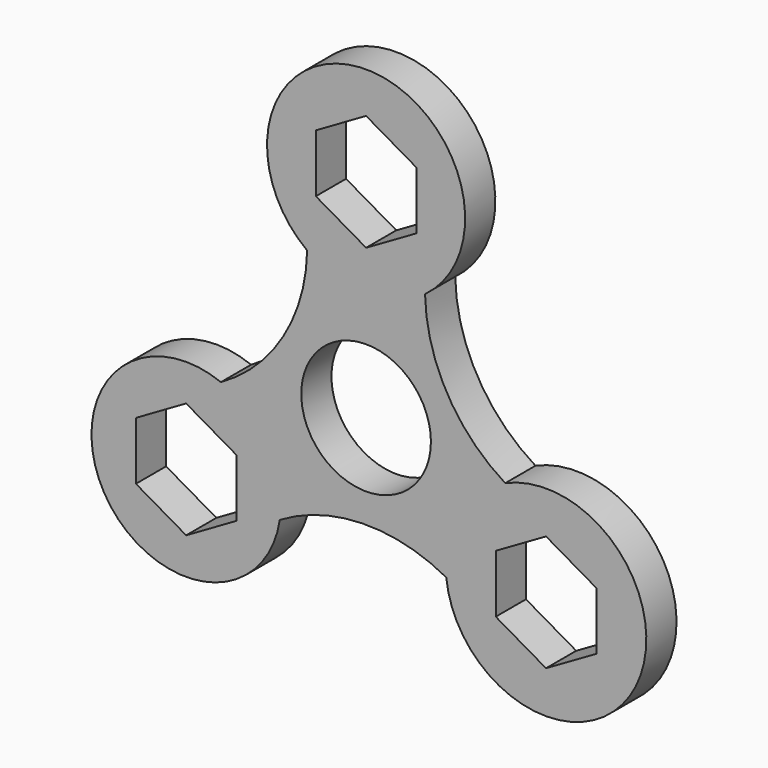
from build123d import *

# Parameters (mm, degrees)
F0_R     = 10.9
F1_DEPTH = 6.35


with BuildPart() as f1:
    # F0 (on Front) → F1 (new body)
    with BuildSketch(Plane.XZ):
        with BuildLine():
            ThreePointArc((-14.505899, -19.817566), (-0.589536, -15.827337), (13.480836, -19.23494))
            ThreePointArc((13.480836, -19.23494), (44.858861, -25.899275), (23.398364, -2.057277))
            ThreePointArc((23.398364, -2.057277), (13.637984, 8.021297), (9.911641, 21.547459))
            ThreePointArc((9.911641, 21.547459), (0, 51.589275), (-9.911641, 21.547459))
            ThreePointArc((-9.911641, 21.547459), (-13.935775, 7.512465), (-24.415466, -2.653694))
            ThreePointArc((-24.415466, -2.653694), (-44.041764, -25.427524), (-14.505899, -19.817566))
        make_face()
        Polygon((-21.803127, -12.588041), (-21.803127, -22.345261), (-30.253127, -27.223871), (-38.703127, -22.345261), (-38.703127, -12.588041), (-30.253127, -7.709432), align=None, mode=Mode.SUBTRACT)
        Circle(F0_R, mode=Mode.SUBTRACT)
        Polygon((21.803127, -12.588041), (30.253127, -7.709432), (38.703127, -12.588041), (38.703127, -22.345261), (30.253127, -27.223871), (21.803127, -22.345261), align=None, mode=Mode.SUBTRACT)
        Polygon((0, 44.690522), (8.45, 39.811912), (8.45, 30.054693), (0, 25.176083), (-8.45, 30.054693), (-8.45, 39.811912), align=None, mode=Mode.SUBTRACT)
        with BuildLine():
            ThreePointArc((-14.505899, -19.817566), (-0.589536, -15.827337), (13.480836, -19.23494))
            ThreePointArc((13.480836, -19.23494), (44.858861, -25.899275), (23.398364, -2.057277))
            ThreePointArc((23.398364, -2.057277), (13.637984, 8.021297), (9.911641, 21.547459))
            ThreePointArc((9.911641, 21.547459), (0, 51.589275), (-9.911641, 21.547459))
            ThreePointArc((-9.911641, 21.547459), (-13.935775, 7.512465), (-24.415466, -2.653694))
            ThreePointArc((-24.415466, -2.653694), (-44.041764, -25.427524), (-14.505899, -19.817566))
        make_face()
        Polygon((-21.803127, -12.588041), (-21.803127, -22.345261), (-30.253127, -27.223871), (-38.703127, -22.345261), (-38.703127, -12.588041), (-30.253127, -7.709432), align=None, mode=Mode.SUBTRACT)
        Circle(F0_R, mode=Mode.SUBTRACT)
        Polygon((21.803127, -12.588041), (30.253127, -7.709432), (38.703127, -12.588041), (38.703127, -22.345261), (30.253127, -27.223871), (21.803127, -22.345261), align=None, mode=Mode.SUBTRACT)
        Polygon((0, 44.690522), (8.45, 39.811912), (8.45, 30.054693), (0, 25.176083), (-8.45, 30.054693), (-8.45, 39.811912), align=None, mode=Mode.SUBTRACT)
        with BuildLine():
            ThreePointArc((-14.505899, -19.817566), (-0.589536, -15.827337), (13.480836, -19.23494))
            ThreePointArc((13.480836, -19.23494), (44.858861, -25.899275), (23.398364, -2.057277))
            ThreePointArc((23.398364, -2.057277), (13.637984, 8.021297), (9.911641, 21.547459))
            ThreePointArc((9.911641, 21.547459), (0, 51.589275), (-9.911641, 21.547459))
            ThreePointArc((-9.911641, 21.547459), (-13.935775, 7.512465), (-24.415466, -2.653694))
            ThreePointArc((-24.415466, -2.653694), (-44.041764, -25.427524), (-14.505899, -19.817566))
        make_face()
        Polygon((-21.803127, -12.588041), (-21.803127, -22.345261), (-30.253127, -27.223871), (-38.703127, -22.345261), (-38.703127, -12.588041), (-30.253127, -7.709432), align=None, mode=Mode.SUBTRACT)
        Circle(F0_R, mode=Mode.SUBTRACT)
        Polygon((21.803127, -12.588041), (30.253127, -7.709432), (38.703127, -12.588041), (38.703127, -22.345261), (30.253127, -27.223871), (21.803127, -22.345261), align=None, mode=Mode.SUBTRACT)
        Polygon((0, 44.690522), (8.45, 39.811912), (8.45, 30.054693), (0, 25.176083), (-8.45, 30.054693), (-8.45, 39.811912), align=None, mode=Mode.SUBTRACT)
        with BuildLine():
            ThreePointArc((-14.505899, -19.817566), (-0.589536, -15.827337), (13.480836, -19.23494))
            ThreePointArc((13.480836, -19.23494), (44.858861, -25.899275), (23.398364, -2.057277))
            ThreePointArc((23.398364, -2.057277), (13.637984, 8.021297), (9.911641, 21.547459))
            ThreePointArc((9.911641, 21.547459), (0, 51.589275), (-9.911641, 21.547459))
            ThreePointArc((-9.911641, 21.547459), (-13.935775, 7.512465), (-24.415466, -2.653694))
            ThreePointArc((-24.415466, -2.653694), (-44.041764, -25.427524), (-14.505899, -19.817566))
        make_face()
        Polygon((-21.803127, -12.588041), (-21.803127, -22.345261), (-30.253127, -27.223871), (-38.703127, -22.345261), (-38.703127, -12.588041), (-30.253127, -7.709432), align=None, mode=Mode.SUBTRACT)
        Circle(F0_R, mode=Mode.SUBTRACT)
        Polygon((21.803127, -12.588041), (30.253127, -7.709432), (38.703127, -12.588041), (38.703127, -22.345261), (30.253127, -27.223871), (21.803127, -22.345261), align=None, mode=Mode.SUBTRACT)
        Polygon((0, 44.690522), (8.45, 39.811912), (8.45, 30.054693), (0, 25.176083), (-8.45, 30.054693), (-8.45, 39.811912), align=None, mode=Mode.SUBTRACT)
    extrude(amount=F1_DEPTH)


solid = f1.part
